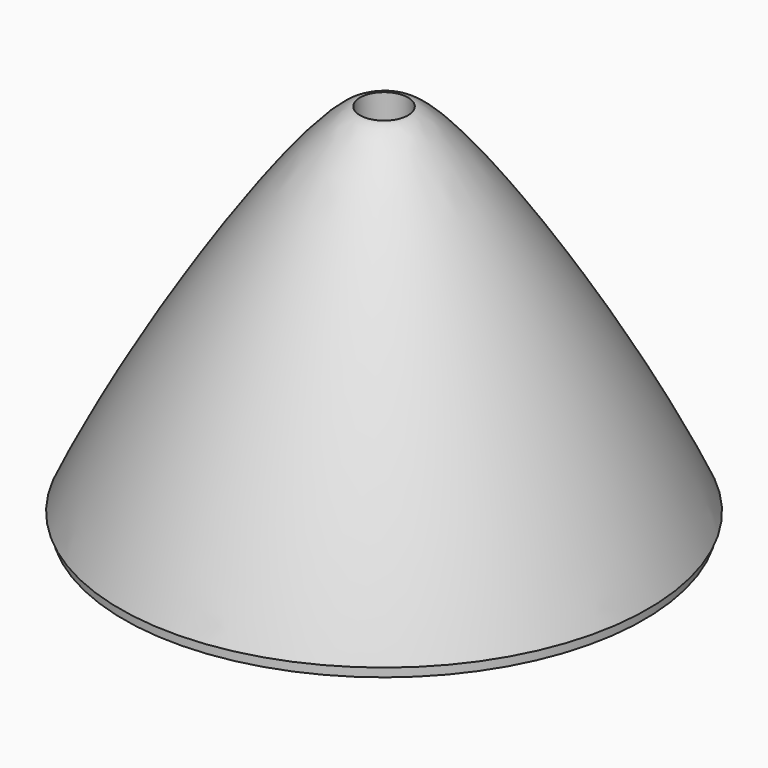
from build123d import *

# Parameters (mm, degrees)
F0_W = 2
F0_H = 1.5


with BuildPart() as f2:
    # F0 (on Front) → F2 (revolve)
    with BuildSketch(Plane.XZ):
        with BuildLine():
            Line((-3.4, 47.4), (-3.4, 51.9))
            add(Edge.make_bspline(
                [(-37.3, 1.5), (-27.3523367941, 23.2050957464), (-7.8810648993, 51.9), (-3.4, 51.9)],
                knots=[0, 0, 0, 0, 60.7401843922, 60.7401843922, 60.7401843922, 60.7401843922], degree=3))
            Line((-37.3, 1.5), (-36.752, 1.5))
            Line((-36.752, 1.5), (-34.752, 1.5))
            Line((-34.752, 1.5), (-34.2042931025, 1.5))
            add(Edge.make_bspline(
                [(-34.2042931025, 1.5), (-26.1722553611, 17.2586675336), (-11.5852886811, 42.7479877156), (-7.4573417298, 43.3413521588)],
                knots=[0, 0, 0, 0, 49.6598243876, 49.6598243876, 49.6598243876, 49.6598243876], degree=3))
            Line((-7.4573417298, 43.3413521588), (-2, 43.3413521588))
            Line((-2, 43.3413521588), (-2, 47.4413521588))
            Line((-2, 47.4413521588), (-3.4, 47.4))
        make_face()
        with Locations((-35.752, 0.75)):
            Rectangle(F0_W, F0_H)
    revolve(axis=Axis((0, 0, 0), (0, 0, 1)))


solid = f2.part
